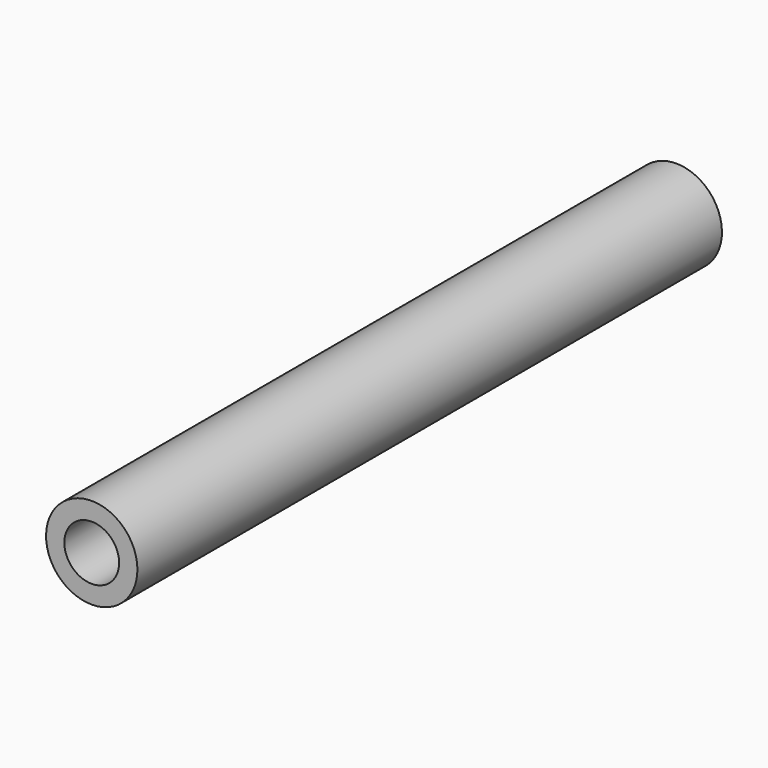
from build123d import *

# Parameters (mm, degrees)
CYLINDER007_R           = 1.5
CYLINDER007_DEPTH       = 44
CYLINDER007_PITCH_ANGLE = 90
CYLINDER006_R           = 2.5
CYLINDER006_DEPTH       = 40
CYLINDER006_PITCH_ANGLE = 90
CUT007_PLACEMENT_ANGLE  = 90


with BuildPart() as cilindro007:
    # Cylinder007 → Cylinder007 (new body)
    with BuildSketch(Plane.XY):
        Circle(CYLINDER007_R)
    extrude(amount=CYLINDER007_DEPTH)


with BuildPart() as cilindro007_1:
    # Cylinder007 pitch: moved
    add(cilindro007.part.rotate(Axis((0, 0, 0), (0, 1, 0)), CYLINDER007_PITCH_ANGLE))


with BuildPart() as cilindro007_2:
    # Cylinder007 placement: moved
    add(cilindro007_1.part.moved(Location((-2, 0, 0))))


with BuildPart() as soporte008:
    # Cylinder006 → Cylinder006 (new body)
    with BuildSketch(Plane.XY):
        Circle(CYLINDER006_R)
    extrude(amount=CYLINDER006_DEPTH)


with BuildPart() as soporte008_1:
    # Cylinder006 pitch: moved
    add(soporte008.part.rotate(Axis((0, 0, 0), (0, 1, 0)), CYLINDER006_PITCH_ANGLE))


with BuildPart() as soporte008_2:
    # Cylinder006 placement: moved
    add(soporte008_1.part)

    # Cut007: cut Cilindro007
    add(cilindro007_2.part, mode=Mode.SUBTRACT)


with BuildPart() as soporte008_3:
    # Cut007 placement: moved
    add(soporte008_2.part.moved(Location((14, 235, 280))).rotate(Axis((14, 235, 280), (0, 0, 1)), CUT007_PLACEMENT_ANGLE))


solid = soporte008_3.part
